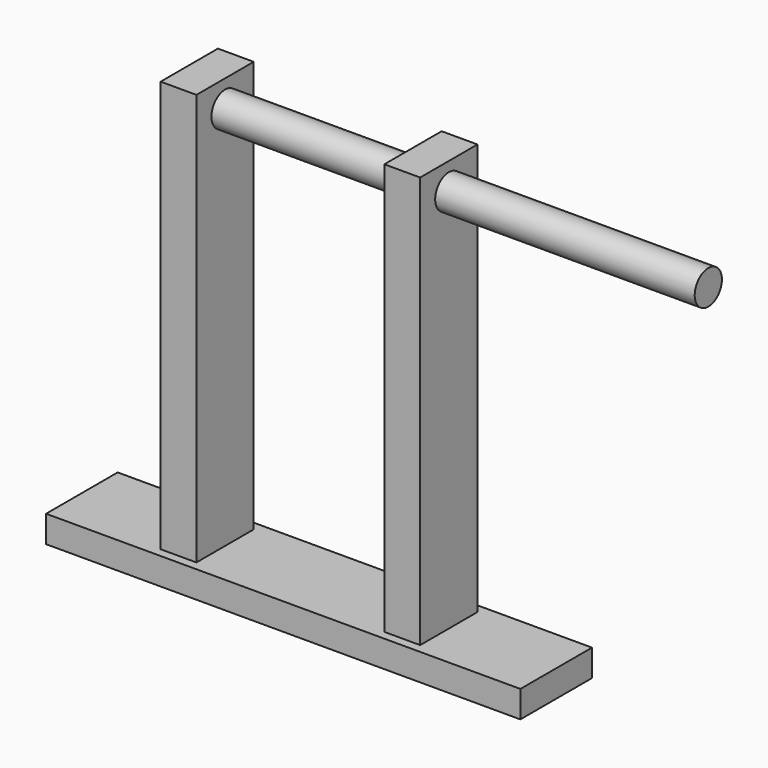
from build123d import *

# Parameters (mm, degrees)
F0_R      = 9.5
F1_DEPTH  = 40
F2_R      = 9.5
F3_DEPTH  = 70
F4_R      = 9.5
F5_DEPTH  = 180
F6_W      = 20
F6_H      = 20
F7_DEPTH  = 15
F8_W      = 20
F8_H      = 10
F9_DEPTH  = 215
F11_DEPTH = 15
F12_DEPTH = 15
F13_DEPTH = 215
F15_DEPTH = 215
F16_W     = 20
F16_H     = 7.5
F17_DEPTH = 20
F18_DEPTH = 25
F19_DEPTH = 25
F20_R     = 9.5
F21_DEPTH = 1


with BuildPart() as f1:
    # F0 (on Right) → F1 (new body)
    with BuildSketch(Plane.YZ):
        Circle(F0_R)
        Circle(F0_R)
    extrude(amount=-F1_DEPTH)

    # F2 (on face) → F3 (join)
    with BuildSketch(Plane.YZ):
        Circle(F2_R)
        Circle(F2_R)
    extrude(amount=F3_DEPTH)

    # F4 (on face) → F5 (join)
    with BuildSketch(Plane.YZ.offset(70)):
        Circle(F4_R)
    extrude(amount=F5_DEPTH)

    # F6 (on Top) → F7 (join)
    with BuildSketch(Plane.XY):
        with Locations((-30, -10)):
            Rectangle(F6_W, F6_H)
        with Locations((-30, 10)):
            Rectangle(F6_W, F6_H)
    extrude(amount=F7_DEPTH)

    # F8 (on Top) → F9 (join)
    with BuildSketch(Plane.XY):
        with Locations((-30, -5)):
            Rectangle(F8_W, F8_H)
        with Locations((-30, 5)):
            Rectangle(F8_W, F8_H)
        with Locations((-30, -15)):
            Rectangle(F8_W, F8_H)
        with Locations((-30, 15)):
            Rectangle(F8_W, F8_H)
    extrude(amount=-F9_DEPTH)

    # F10 (on Top) → F11 (join)
    with BuildSketch(Plane.XY):
        Polygon((85, 10), (85, 0), (85, -10), (85, -20), (105, -20), (105, 20), (85, 20), align=None)
    extrude(amount=F11_DEPTH)

    # F6 (on Top) → F12 (join)
    with BuildSketch(Plane.XY):
        with Locations((-30, -10)):
            Rectangle(F6_W, F6_H)
        with Locations((-30, 10)):
            Rectangle(F6_W, F6_H)
    extrude(amount=F12_DEPTH)

    # F8 (on Top) → F13 (join)
    with BuildSketch(Plane.XY):
        with Locations((-30, -5)):
            Rectangle(F8_W, F8_H)
        with Locations((-30, 5)):
            Rectangle(F8_W, F8_H)
        with Locations((-30, -15)):
            Rectangle(F8_W, F8_H)
        with Locations((-30, 15)):
            Rectangle(F8_W, F8_H)
    extrude(amount=-F13_DEPTH)

    # F14 (on Top) → F15 (join)
    with BuildSketch(Plane.XY):
        Polygon((85, 20), (85, 0), (85, -20), (105, -20), (105, 20), align=None)
    extrude(amount=-F15_DEPTH)

    # F16 (on Front) → F17 (join)
    with BuildSketch(Plane.XZ):
        with Locations((-30, -218.75)):
            Rectangle(F16_W, F16_H)
    extrude(amount=F17_DEPTH)

    # F16 (on Front) → F18 (join)
    with BuildSketch(Plane.XZ):
        Polygon((85, -215), (0, -215), (-20, -215), (-20, -222.5), (85, -222.5), align=None)
        with Locations((-30, -218.75)):
            Rectangle(F16_W, F16_H)
        with Locations((95, -218.75)):
            Rectangle(F16_W, F16_H)
        Polygon((-40, -222.5), (-40, -215), (-100, -215), (-100, -230), (-40, -230), align=None)
        Polygon((85, -222.5), (-20, -222.5), (-40, -222.5), (-40, -230), (165, -230), (165, -215), (105, -215), (105, -222.5), align=None)
    extrude(amount=F18_DEPTH)

    # F16 (on Front) → F19 (join)
    with BuildSketch(Plane.XZ):
        Polygon((85, -215), (0, -215), (-20, -215), (-20, -222.5), (85, -222.5), align=None)
        with Locations((-30, -218.75)):
            Rectangle(F16_W, F16_H)
        with Locations((95, -218.75)):
            Rectangle(F16_W, F16_H)
        Polygon((-40, -222.5), (-40, -215), (-100, -215), (-100, -230), (-40, -230), align=None)
        Polygon((85, -222.5), (-20, -222.5), (-40, -222.5), (-40, -230), (165, -230), (165, -215), (105, -215), (105, -222.5), align=None)
    extrude(amount=-F19_DEPTH)

    # F20 (on face) → F21 (join)
    with BuildSketch(Plane(origin=(-40, 0, 0), x_dir=(0, -1, 0), z_dir=(-1, 0, 0))):
        Circle(F20_R)
    extrude(amount=F21_DEPTH)


solid = f1.part
